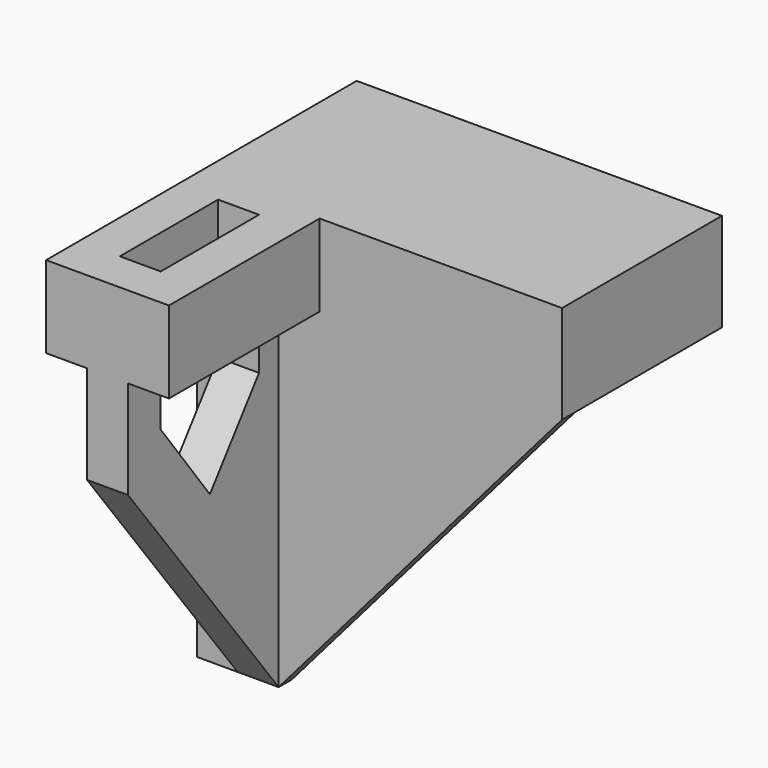
from build123d import *

# Parameters (mm, degrees)
SKETCH002_W   = 44.6
SKETCH002_H   = 24.4
SKETCH002_W_2 = 40.6
SKETCH002_H_2 = 20.4
PAD001_DEPTH  = 12
BOX_W         = 44.2
BOX_H         = 24.2
BOX_DEPTH     = 2
PAD_DEPTH     = 2.5
SKETCH003_W   = 15
SKETCH003_H   = 25
PAD002_DEPTH  = 10
PAD003_DEPTH  = 2


with BuildPart() as part:
    # Sketch002 → Pad001 (new body)
    with BuildSketch(Plane.XY):
        with Locations((20.3, 10.2)):
            Rectangle(SKETCH002_W, SKETCH002_H)
        with Locations((20.3, 10.2)):
            Rectangle(SKETCH002_W_2, SKETCH002_H_2, mode=Mode.SUBTRACT)
    extrude(amount=PAD001_DEPTH)

    # Box → Box (join)
    with BuildSketch(Plane(origin=(-2, -2, 10), x_dir=(1, 0, 0), z_dir=(0, 0, 1))):
        with Locations((22.1, 12.1)):
            Rectangle(BOX_W, BOX_H)
    extrude(amount=BOX_DEPTH)

    # Sketch → Pad (join, symmetric)
    with BuildSketch(Plane.YZ.offset(5.5)):
        Polygon((-25, -10), (-2, -40), (0, -40), (0, -10), (0, 12), (-5, 12), (-5, -5), (-12.5, -15), (-20, -5), (-20, 12), (-25, 12), align=None)
    extrude(amount=PAD_DEPTH, both=True)

    # Sketch003 → Pad002 (join)
    with BuildSketch(Plane.XY.offset(12)):
        with Locations((5.5, -12.5)):
            Rectangle(SKETCH003_W, SKETCH003_H)
        with BuildLine():
            Line((3, -5), (3, -20))
            ThreePointArc((3, -20), (5.5, -22.5), (8, -20))
            Line((8, -20), (8, -5))
            ThreePointArc((8, -5), (5.5, -2.5), (3, -5))
        make_face(mode=Mode.SUBTRACT)
    extrude(amount=-PAD002_DEPTH)

    # Sketch004 → Pad003 (join)
    with BuildSketch(Plane.XZ):
        Polygon((-2, 0), (-2, -40), (8, -40), (42.6, 0), align=None)
    extrude(amount=PAD003_DEPTH)


solid = part.part
